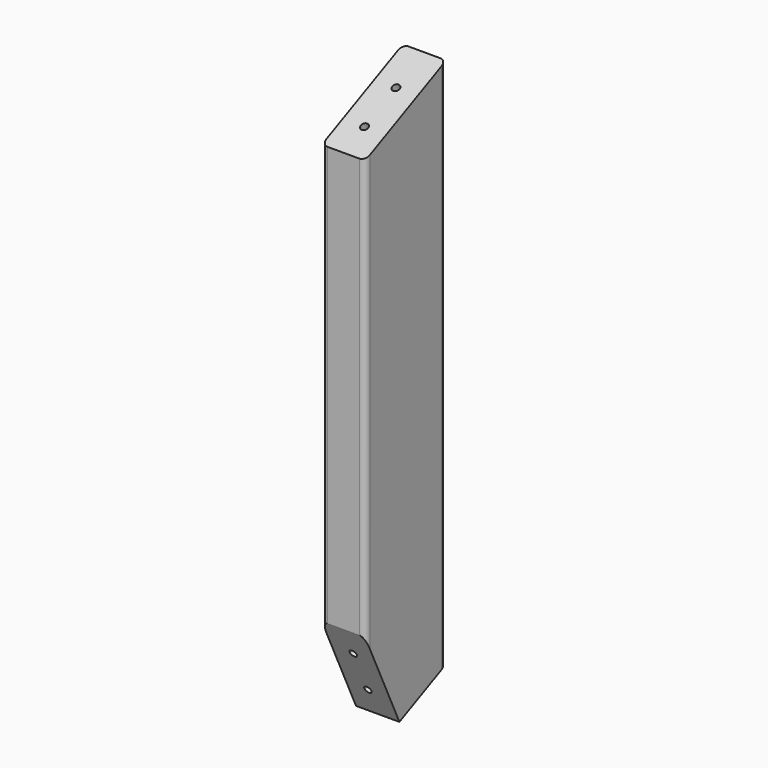
from build123d import *

# Parameters (mm, degrees)
F0_W     = 38.1
F0_H     = 88.9
F1_DEPTH = 254
F3_DEPTH = 38.101
F5_D     = 6.35
F6_R     = 5.08
F8_D     = 6.35
F8_DEPTH = 25.4
F8_TIP   = 1.9077324654


with BuildPart() as f1:
    # F0 (on Top) → F1 (new body, symmetric)
    with BuildSketch(Plane.XY):
        Rectangle(F0_W, F0_H)
    extrude(amount=F1_DEPTH, both=True)

    # F2 (on face) → F3 (cut, through all)
    with BuildSketch(Plane.YZ.offset(19.05)):
        Polygon((-44.45, 254), (-44.45, 212.54524919), (44.45, 254), align=None)
        Polygon((-6.8792365313, -236.4804652718), (-44.45, -254), (44.45, -254), (44.45, -212.54524919), align=None)
        Polygon((-44.45, -155.9097030042), (-44.45, -254), (-6.8792365313, -236.4804652718), align=None)
    extrude(amount=-F3_DEPTH, mode=Mode.SUBTRACT)

    # F5 (through all)
    with Locations(Plane(origin=(0, -96.2278354326, -44.8717765899), x_dir=(1, 0, 0), z_dir=(0, -0.906307787, -0.4226182617))):
        with Locations((0, -147.9167961729), (0, -186.0167961729)):
            Hole(F5_D / 2)

    # F6
    f6_edges = [f1.edges().sort_by_distance(p)[0] for p in [
        (19.05, -44.45, 28.317773),
        (-19.05, -44.45, 28.317773),
        (19.05, 44.45, 20.727375),
        (-19.05, 44.45, 20.727375),
    ]]
    fillet(f6_edges, radius=F6_R)

    # F8
    with Locations(Plane(origin=(0, -89.3485989014, 191.6086886819), x_dir=(1, 0, 0), z_dir=(0, -0.4226182617, 0.906307787))):
        with Locations((0, 113.0401226202), (0, 74.9401226202)):
            Hole(F8_D / 2, depth=F8_DEPTH)
            with Locations((0, 0, -(F8_DEPTH + F8_TIP / 2))):  # 118° drill point
                Cone(0, F8_D / 2, F8_TIP, mode=Mode.SUBTRACT)


solid = f1.part
